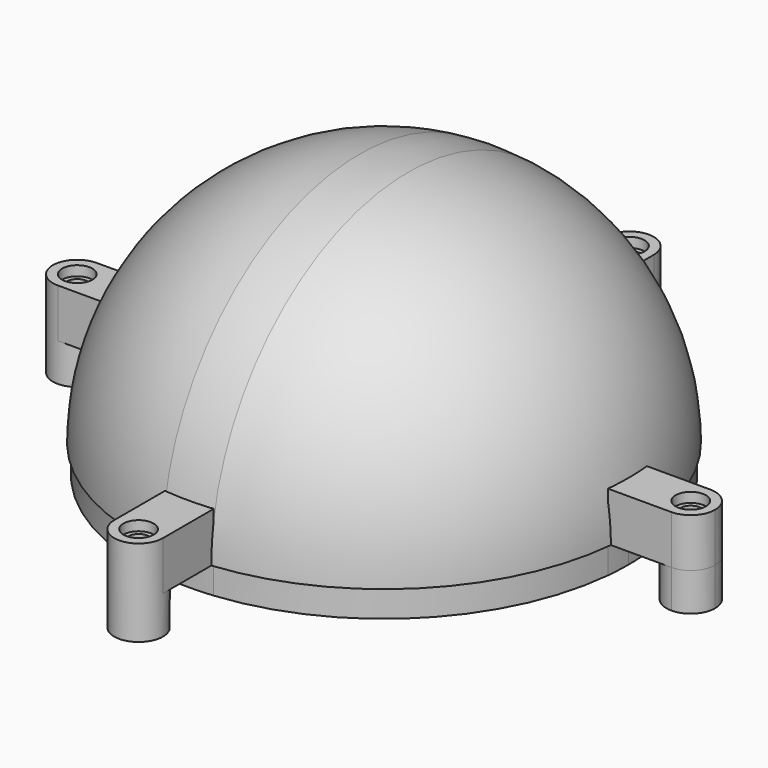
from build123d import *

# Parameters (mm, degrees)
F1_ANGLE = 180
F2_DEPTH = 5
F0_R     = 1.0740208256
F3_DEPTH = 2.84
F4_DEPTH = 3.9
F5_R     = 1.5549983164
F5_R_2   = 1.0740208256
F6_DEPTH = 1


with BuildPart() as f1:
    # F0 (on Top) → F1 (revolve)
    with BuildSketch(Plane.XY):
        with BuildLine():
            Line((24.975187687, 2.5), (25.2766690844, 2.5))
            ThreePointArc((25.2766690844, 2.5), (17.9605122421, 17.9605122421), (2.5, 25.2766690844))
            Line((2.5, 25.2766690844), (2.5, 24.975187687))
            ThreePointArc((2.5, 24.975187687), (17.7483802078, 17.7483802078), (24.975187687, 2.5))
        make_face()
        with BuildLine():
            Line((25.1, 0), (25.4, 0))
            ThreePointArc((25.4, 0), (25.3691485346, 1.2515201272), (25.2766690844, 2.5))
            Line((25.2766690844, 2.5), (24.975187687, 2.5))
            ThreePointArc((24.975187687, 2.5), (25.0687775025, 1.2515568418), (25.1, 0))
        make_face()
        with BuildLine():
            Line((2.5, 24.975187687), (2.5, 25.2766690844))
            ThreePointArc((2.5, 25.2766690844), (0, 25.4), (-2.5, 25.2766690844))
            Line((-2.5, 25.2766690844), (-2.5, 24.975187687))
            ThreePointArc((-2.5, 24.975187687), (0, 25.1), (2.5, 24.975187687))
        make_face()
        with BuildLine():
            Line((-2.5, 24.975187687), (-2.5, 25.2766690844))
            ThreePointArc((-2.5, 25.2766690844), (-17.9605122421, 17.9605122421), (-25.2766690844, 2.5))
            Line((-25.2766690844, 2.5), (-24.975187687, 2.5))
            ThreePointArc((-24.975187687, 2.5), (-17.7483802078, 17.7483802078), (-2.5, 24.975187687))
        make_face()
        with BuildLine():
            Line((-24.975187687, 2.5), (-25.2766690844, 2.5))
            ThreePointArc((-25.2766690844, 2.5), (-25.3691485346, 1.2515201272), (-25.4, 0))
            Line((-25.4, 0), (-25.1, 0))
            ThreePointArc((-25.1, 0), (-25.0687775025, 1.2515568418), (-24.975187687, 2.5))
        make_face()
    revolve(axis=Axis((0.945251435, 0, 0), (1, 0, 0)), revolution_arc=F1_ANGLE)



with BuildPart() as f2:
    # F0 (on Top) → F2 (new body)
    with BuildSketch(Plane.XY):
        with BuildLine():
            ThreePointArc((25.2766690844, 2.5), (25.3691485346, 1.2515201272), (25.4, 0))
            Line((25.4, 0), (28.9766690844, 0))
            ThreePointArc((28.9766690844, 0), (29.7089021314, 1.767766953), (31.4766690844, 2.5))
            Line((31.4766690844, 2.5), (25.2766690844, 2.5))
        make_face()
        with BuildLine():
            Line((28.9766690844, 0), (25.4, 0))
            ThreePointArc((25.4, 0), (25.3691485346, -1.2515201272), (25.2766690844, -2.5))
            Line((25.2766690844, -2.5), (31.4766690844, -2.5))
            ThreePointArc((31.4766690844, -2.5), (29.7089021314, -1.767766953), (28.9766690844, 0))
        make_face()
        with BuildLine():
            ThreePointArc((31.4766690844, 2.5), (29.7089021314, 1.767766953), (28.9766690844, 0))
            Line((28.9766690844, 0), (30.4026482587, 0))
            ThreePointArc((30.4026482587, 0), (31.4766690844, 1.0740208256), (32.55068991, 0))
            Line((32.55068991, 0), (33.9766690844, 0))
            ThreePointArc((33.9766690844, 0), (33.2444360373, 1.767766953), (31.4766690844, 2.5))
        make_face()
        with BuildLine():
            Line((30.4026482587, 0), (28.9766690844, 0))
            ThreePointArc((28.9766690844, 0), (29.7089021314, -1.767766953), (31.4766690844, -2.5))
            ThreePointArc((31.4766690844, -2.5), (33.2444360373, -1.767766953), (33.9766690844, 0))
            Line((33.9766690844, 0), (32.55068991, 0))
            ThreePointArc((32.55068991, 0), (31.4766690844, -1.0740208256), (30.4026482587, 0))
        make_face()
        with BuildLine():
            Line((25.1, 0), (25.4, 0))
            ThreePointArc((25.4, 0), (25.3691485346, 1.2515201272), (25.2766690844, 2.5))
            Line((25.2766690844, 2.5), (24.975187687, 2.5))
            ThreePointArc((24.975187687, 2.5), (25.0687775025, 1.2515568418), (25.1, 0))
        make_face()
        with BuildLine():
            ThreePointArc((25.2766690844, -2.5), (25.3691485346, -1.2515201272), (25.4, 0))
            Line((25.4, 0), (25.1, 0))
            ThreePointArc((25.1, 0), (25.0687775025, -1.2515568418), (24.975187687, -2.5))
            Line((24.975187687, -2.5), (25.2766690844, -2.5))
        make_face()
    extrude(amount=F2_DEPTH)


with BuildPart() as f2b:
    # F0 (on Top) → F2, piece 2 (new body)
    with BuildSketch(Plane.XY):
        with BuildLine():
            Line((2.5, 24.975187687), (2.5, 25.2766690844))
            ThreePointArc((2.5, 25.2766690844), (0, 25.4), (-2.5, 25.2766690844))
            Line((-2.5, 25.2766690844), (-2.5, 24.975187687))
            ThreePointArc((-2.5, 24.975187687), (0, 25.1), (2.5, 24.975187687))
        make_face()
        with BuildLine():
            ThreePointArc((-2.5, 25.2766690844), (0, 25.4), (2.5, 25.2766690844))
            Line((2.5, 25.2766690844), (2.5, 31.4766690844))
            ThreePointArc((2.5, 31.4766690844), (0, 28.9766690844), (-2.5, 31.4766690844))
            Line((-2.5, 31.4766690844), (-2.5, 25.2766690844))
        make_face()
        with BuildLine():
            ThreePointArc((-2.5, 31.4766690844), (0, 28.9766690844), (2.5, 31.4766690844))
            ThreePointArc((2.5, 31.4766690844), (0, 33.9766690844), (-2.5, 31.4766690844))
        make_face()
        with Locations((0, 31.4766690844)):
            Circle(F0_R, mode=Mode.SUBTRACT)
    extrude(amount=F2_DEPTH)


with BuildPart() as f2c:
    # F0 (on Top) → F2, piece 3 (new body)
    with BuildSketch(Plane.XY):
        with BuildLine():
            ThreePointArc((-25.4, 0), (-25.3691485346, 1.2515201272), (-25.2766690844, 2.5))
            Line((-25.2766690844, 2.5), (-31.4766690844, 2.5))
            ThreePointArc((-31.4766690844, 2.5), (-29.7089021314, 1.767766953), (-28.9766690844, 0))
            Line((-28.9766690844, 0), (-25.4, 0))
        make_face()
        with BuildLine():
            ThreePointArc((-28.9766690844, 0), (-29.7089021314, 1.767766953), (-31.4766690844, 2.5))
            ThreePointArc((-31.4766690844, 2.5), (-33.2444360373, 1.767766953), (-33.9766690844, 0))
            Line((-33.9766690844, 0), (-32.55068991, 0))
            ThreePointArc((-32.55068991, 0), (-31.4766690844, 1.0740208256), (-30.4026482587, 0))
            Line((-30.4026482587, 0), (-28.9766690844, 0))
        make_face()
        with BuildLine():
            ThreePointArc((-33.9766690844, 0), (-33.2444360373, -1.767766953), (-31.4766690844, -2.5))
            ThreePointArc((-31.4766690844, -2.5), (-29.7089021314, -1.767766953), (-28.9766690844, 0))
            Line((-28.9766690844, 0), (-30.4026482587, 0))
            ThreePointArc((-30.4026482587, 0), (-31.4766690844, -1.0740208256), (-32.55068991, 0))
            Line((-32.55068991, 0), (-33.9766690844, 0))
        make_face()
        with BuildLine():
            Line((-31.4766690844, -2.5), (-25.2766690844, -2.5))
            ThreePointArc((-25.2766690844, -2.5), (-25.3691485346, -1.2515201272), (-25.4, 0))
            Line((-25.4, 0), (-28.9766690844, 0))
            ThreePointArc((-28.9766690844, 0), (-29.7089021314, -1.767766953), (-31.4766690844, -2.5))
        make_face()
        with BuildLine():
            ThreePointArc((-25.4, 0), (-25.3691485346, -1.2515201272), (-25.2766690844, -2.5))
            Line((-25.2766690844, -2.5), (-24.975187687, -2.5))
            ThreePointArc((-24.975187687, -2.5), (-25.0687775025, -1.2515568418), (-25.1, 0))
            Line((-25.1, 0), (-25.4, 0))
        make_face()
        with BuildLine():
            Line((-24.975187687, 2.5), (-25.2766690844, 2.5))
            ThreePointArc((-25.2766690844, 2.5), (-25.3691485346, 1.2515201272), (-25.4, 0))
            Line((-25.4, 0), (-25.1, 0))
            ThreePointArc((-25.1, 0), (-25.0687775025, 1.2515568418), (-24.975187687, 2.5))
        make_face()
    extrude(amount=F2_DEPTH)


with BuildPart() as f2d:
    # F0 (on Top) → F2, piece 4 (new body)
    with BuildSketch(Plane.XY):
        with BuildLine():
            ThreePointArc((-2.5, -31.4766690844), (0, -33.9766690844), (2.5, -31.4766690844))
            ThreePointArc((2.5, -31.4766690844), (0, -28.9766690844), (-2.5, -31.4766690844))
        make_face()
        with Locations((0, -31.4766690844)):
            Circle(F0_R, mode=Mode.SUBTRACT)
        with BuildLine():
            Line((2.5, -31.4766690844), (2.5, -25.2766690844))
            ThreePointArc((2.5, -25.2766690844), (0, -25.4), (-2.5, -25.2766690844))
            Line((-2.5, -25.2766690844), (-2.5, -31.4766690844))
            ThreePointArc((-2.5, -31.4766690844), (0, -28.9766690844), (2.5, -31.4766690844))
        make_face()
        with BuildLine():
            ThreePointArc((-2.5, -25.2766690844), (0, -25.4), (2.5, -25.2766690844))
            Line((2.5, -25.2766690844), (2.5, -24.975187687))
            ThreePointArc((2.5, -24.975187687), (0, -25.1), (-2.5, -24.975187687))
            Line((-2.5, -24.975187687), (-2.5, -25.2766690844))
        make_face()
    extrude(amount=F2_DEPTH)


with BuildPart() as f1_1:
    add(f1.part)

    add(f2.part)  # F3 merges F2

    add(f2b.part)  # F3 merges F2b

    add(f2c.part)  # F3 merges F2c

    add(f2d.part)  # F3 merges F2d
    # F0 (on Top) → F3 (join)
    with BuildSketch(Plane.XY):
        with BuildLine():
            Line((22.7631280803, 2.5), (24.975187687, 2.5))
            ThreePointArc((24.975187687, 2.5), (17.7483802078, 17.7483802078), (2.5, 24.975187687))
            Line((2.5, 24.975187687), (2.5, 22.7631280803))
            ThreePointArc((2.5, 22.7631280803), (16.1927452892, 16.1927452892), (22.7631280803, 2.5))
        make_face()
        with BuildLine():
            Line((22.9, 0), (25.1, 0))
            ThreePointArc((25.1, 0), (25.0687775025, 1.2515568418), (24.975187687, 2.5))
            Line((24.975187687, 2.5), (22.7631280803, 2.5))
            ThreePointArc((22.7631280803, 2.5), (22.865756417, 1.2518719905), (22.9, 0))
        make_face()
        with BuildLine():
            ThreePointArc((24.975187687, -2.5), (25.0687775025, -1.2515568418), (25.1, 0))
            Line((25.1, 0), (22.9, 0))
            ThreePointArc((22.9, 0), (22.865756417, -1.2518719905), (22.7631280803, -2.5))
            Line((22.7631280803, -2.5), (24.975187687, -2.5))
        make_face()
        with BuildLine():
            ThreePointArc((2.5, -24.975187687), (17.7483802078, -17.7483802078), (24.975187687, -2.5))
            Line((24.975187687, -2.5), (22.7631280803, -2.5))
            ThreePointArc((22.7631280803, -2.5), (16.1927452892, -16.1927452892), (2.5, -22.7631280803))
            Line((2.5, -22.7631280803), (2.5, -24.975187687))
        make_face()
        with BuildLine():
            ThreePointArc((-2.5, -24.975187687), (0, -25.1), (2.5, -24.975187687))
            Line((2.5, -24.975187687), (2.5, -22.7631280803))
            ThreePointArc((2.5, -22.7631280803), (0, -22.9), (-2.5, -22.7631280803))
            Line((-2.5, -22.7631280803), (-2.5, -24.975187687))
        make_face()
        with BuildLine():
            ThreePointArc((-24.975187687, -2.5), (-17.7483802078, -17.7483802078), (-2.5, -24.975187687))
            Line((-2.5, -24.975187687), (-2.5, -22.7631280803))
            ThreePointArc((-2.5, -22.7631280803), (-16.1927452892, -16.1927452892), (-22.7631280803, -2.5))
            Line((-22.7631280803, -2.5), (-24.975187687, -2.5))
        make_face()
        with BuildLine():
            ThreePointArc((-25.1, 0), (-25.0687775025, -1.2515568418), (-24.975187687, -2.5))
            Line((-24.975187687, -2.5), (-22.7631280803, -2.5))
            ThreePointArc((-22.7631280803, -2.5), (-22.865756417, -1.2518719905), (-22.9, 0))
            Line((-22.9, 0), (-25.1, 0))
        make_face()
        with BuildLine():
            Line((-22.7631280803, 2.5), (-24.975187687, 2.5))
            ThreePointArc((-24.975187687, 2.5), (-25.0687775025, 1.2515568418), (-25.1, 0))
            Line((-25.1, 0), (-22.9, 0))
            ThreePointArc((-22.9, 0), (-22.865756417, 1.2518719905), (-22.7631280803, 2.5))
        make_face()
        with BuildLine():
            Line((-2.5, 22.7631280803), (-2.5, 24.975187687))
            ThreePointArc((-2.5, 24.975187687), (-17.7483802078, 17.7483802078), (-24.975187687, 2.5))
            Line((-24.975187687, 2.5), (-22.7631280803, 2.5))
            ThreePointArc((-22.7631280803, 2.5), (-16.1927452892, 16.1927452892), (-2.5, 22.7631280803))
        make_face()
        with BuildLine():
            Line((2.5, 22.7631280803), (2.5, 24.975187687))
            ThreePointArc((2.5, 24.975187687), (0, 25.1), (-2.5, 24.975187687))
            Line((-2.5, 24.975187687), (-2.5, 22.7631280803))
            ThreePointArc((-2.5, 22.7631280803), (0, 22.9), (2.5, 22.7631280803))
        make_face()
    extrude(amount=-F3_DEPTH)

    # F0 (on Top) → F4 (join)
    with BuildSketch(Plane.XY):
        with BuildLine():
            ThreePointArc((-28.9766690844, 0), (-29.7089021314, 1.767766953), (-31.4766690844, 2.5))
            ThreePointArc((-31.4766690844, 2.5), (-33.2444360373, 1.767766953), (-33.9766690844, 0))
            Line((-33.9766690844, 0), (-32.55068991, 0))
            ThreePointArc((-32.55068991, 0), (-31.4766690844, 1.0740208256), (-30.4026482587, 0))
            Line((-30.4026482587, 0), (-28.9766690844, 0))
        make_face()
        with BuildLine():
            ThreePointArc((-33.9766690844, 0), (-33.2444360373, -1.767766953), (-31.4766690844, -2.5))
            ThreePointArc((-31.4766690844, -2.5), (-29.7089021314, -1.767766953), (-28.9766690844, 0))
            Line((-28.9766690844, 0), (-30.4026482587, 0))
            ThreePointArc((-30.4026482587, 0), (-31.4766690844, -1.0740208256), (-32.55068991, 0))
            Line((-32.55068991, 0), (-33.9766690844, 0))
        make_face()
        with BuildLine():
            ThreePointArc((-2.5, -31.4766690844), (0, -33.9766690844), (2.5, -31.4766690844))
            ThreePointArc((2.5, -31.4766690844), (0, -28.9766690844), (-2.5, -31.4766690844))
        make_face()
        with Locations((0, -31.4766690844)):
            Circle(F0_R, mode=Mode.SUBTRACT)
        with BuildLine():
            ThreePointArc((-2.5, 31.4766690844), (0, 28.9766690844), (2.5, 31.4766690844))
            ThreePointArc((2.5, 31.4766690844), (0, 33.9766690844), (-2.5, 31.4766690844))
        make_face()
        with Locations((0, 31.4766690844)):
            Circle(F0_R, mode=Mode.SUBTRACT)
        with BuildLine():
            ThreePointArc((31.4766690844, 2.5), (29.7089021314, 1.767766953), (28.9766690844, 0))
            Line((28.9766690844, 0), (30.4026482587, 0))
            ThreePointArc((30.4026482587, 0), (31.4766690844, 1.0740208256), (32.55068991, 0))
            Line((32.55068991, 0), (33.9766690844, 0))
            ThreePointArc((33.9766690844, 0), (33.2444360373, 1.767766953), (31.4766690844, 2.5))
        make_face()
        with BuildLine():
            Line((30.4026482587, 0), (28.9766690844, 0))
            ThreePointArc((28.9766690844, 0), (29.7089021314, -1.767766953), (31.4766690844, -2.5))
            ThreePointArc((31.4766690844, -2.5), (33.2444360373, -1.767766953), (33.9766690844, 0))
            Line((33.9766690844, 0), (32.55068991, 0))
            ThreePointArc((32.55068991, 0), (31.4766690844, -1.0740208256), (30.4026482587, 0))
        make_face()
    extrude(amount=-F4_DEPTH)

    # F5 (on face) → F6 (cut)
    with BuildSketch(Plane.XY.offset(5)):
        with Locations((0, -31.4766690844)):
            Circle(F5_R)
        with Locations((-31.4766690844, 0)):
            Circle(F5_R)
        with Locations((-31.4766690844, 0)):
            Circle(F5_R_2, mode=Mode.SUBTRACT)
        with Locations((0, 31.4766690844)):
            Circle(F5_R)
        with Locations((31.4766690844, 0)):
            Circle(F5_R)
    extrude(amount=-F6_DEPTH, mode=Mode.SUBTRACT)


solid = f1_1.part
